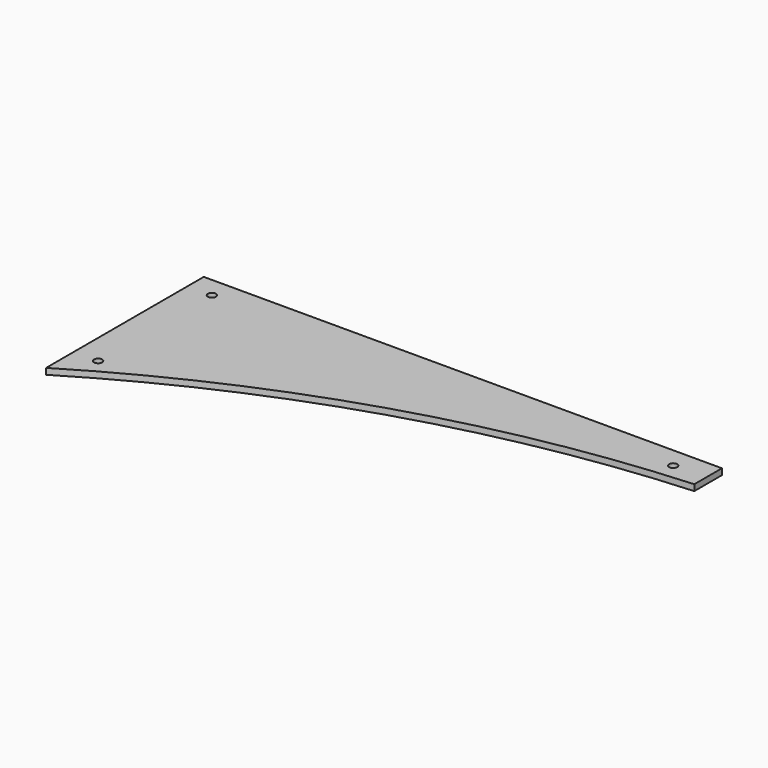
from build123d import *

# Parameters (mm, degrees)
F0_R     = 12.7
F1_DEPTH = 19.05


with BuildPart() as f1:
    # F0 (on Top) → F1 (new body)
    with BuildSketch(Plane.XY):
        with BuildLine():
            Line((0, 615.95), (0, 0))
            ThreePointArc((0, 0), (778.748812, 352.41785), (1619.25, 508))
            Line((1619.25, 508), (1619.25, 615.95))
            Line((1619.25, 615.95), (0, 615.95))
        make_face()
        with Locations((76.2, 107.95)):
            Circle(F0_R, mode=Mode.SUBTRACT)
        with Locations((76.2, 552.45)):
            Circle(F0_R, mode=Mode.SUBTRACT)
        with Locations((1517.65, 552.45)):
            Circle(F0_R, mode=Mode.SUBTRACT)
    extrude(amount=F1_DEPTH)


solid = f1.part
